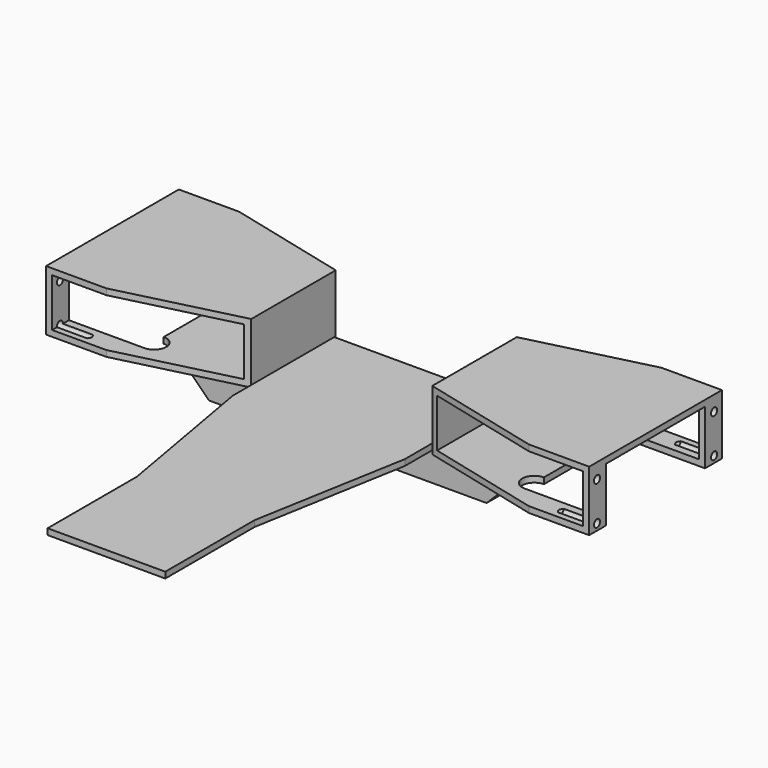
from build123d import *

# Parameters (mm, degrees)
F0_W      = 56
F0_H      = 16
F1_DEPTH  = 27.5
F2_DEPTH  = 15
F4_DEPTH  = 30.001
F6_DEPTH  = 18
F9_D      = 2.5
F9_DEPTH  = 12
F9_TIP    = 0.7510757738
F11_DEPTH = 2


with BuildPart() as f1:
    # F0 (on Front) → F1 (new body, symmetric)
    with BuildSketch(Plane.XZ):
        Polygon((-30, 20), (-90, 20), (-90, 0), (-55, 0), (-30, 0), align=None)
        with Locations((-60, 10)):
            Rectangle(F0_W, F0_H, mode=Mode.SUBTRACT)
    extrude(amount=F1_DEPTH, both=True)


with BuildPart() as f1b:
    # F0 (on Front) → F1, piece 2 (new body, symmetric)
    with BuildSketch(Plane.XZ):
        Polygon((30, 20), (30, 0), (55, 0), (90, 0), (90, 20), align=None)
        with Locations((60, 10)):
            Rectangle(F0_W, F0_H, mode=Mode.SUBTRACT)
    extrude(amount=F1_DEPTH, both=True)


with BuildPart() as f2:
    # F0 (on Front) → F2 (new body, symmetric)
    with BuildSketch(Plane.XZ):
        Polygon((30, 0), (-30, 0), (-55, 0), (-55, -1), (-46, -10), (46, -10), (55, -1), (55, 0), align=None)
    extrude(amount=F2_DEPTH, both=True)

    # F10 (on face) → F11 (join)
    with BuildSketch(Plane.XY):
        Polygon((28.5, 15), (-28.5, 15), (-28.5, -27), (-19.5, -78), (-19.5, -115), (19.5, -115), (19.5, -78), (28.5, -27), align=None)
    extrude(amount=F11_DEPTH)


with BuildPart() as f4_tool:
    # F3 (on face) → F4 (new body, through all)
    with BuildSketch(Plane.XY.offset(20)):
        Polygon((-30, 27.5), (-70, 27.5), (-30, 17.5), align=None)
        Polygon((-70, -27.5), (-30, -27.5), (-30, -17.5), align=None)
        Polygon((30, 17.5), (70, 27.5), (30, 27.5), align=None)
        Polygon((70, -27.5), (30, -17.5), (30, -27.5), align=None)
    extrude(amount=-F4_DEPTH)


with BuildPart() as f1_1:
    add(f1.part)

    # F4: cut by f4_tool
    add(f4_tool.part, mode=Mode.SUBTRACT)

    # F5 (on face) → F6 (cut, through all)
    with BuildSketch(Plane(origin=(0, 0, 0), x_dir=(1, 0, 0), z_dir=(0, 0, -1))):
        with BuildLine():
            Line((-63, 20.5), (-90, 20.5))
            Line((-90, 20.5), (-90, -20.5))
            Line((-90, -20.5), (-63, -20.5))
            ThreePointArc((-63, -20.5), (-59, -16.5), (-63, -12.5))
            Line((-63, -12.5), (-63, 12.5))
            ThreePointArc((-63, 12.5), (-59, 16.5), (-63, 20.5))
        make_face()
    extrude(amount=-F6_DEPTH, mode=Mode.SUBTRACT)

    # F9
    with Locations(Plane(origin=(-90, 0, 0), x_dir=(0, -1, 0), z_dir=(-1, 0, 0))):
        with Locations((-24.2568291724, 14.9830980226), (-24.2568291724, 2.1462233271), (24.2568291724, 14.9830980226), (24.2568291724, 2.1462233271)):
            Hole(F9_D / 2, depth=F9_DEPTH)
            with Locations((0, 0, -(F9_DEPTH + F9_TIP / 2))):  # 118° drill point
                Cone(0, F9_D / 2, F9_TIP, mode=Mode.SUBTRACT)



with BuildPart() as f1b_1:
    add(f1b.part)

    # F4: cut by f4_tool
    add(f4_tool.part, mode=Mode.SUBTRACT)


with BuildPart() as f1_2:
    add(f1_1.part)

    add(f2.part)  # F12 merges F2
    # F12: F1 across plane
    add(f1_1.part.mirror(Plane.YZ))


solid = f1_2.part
